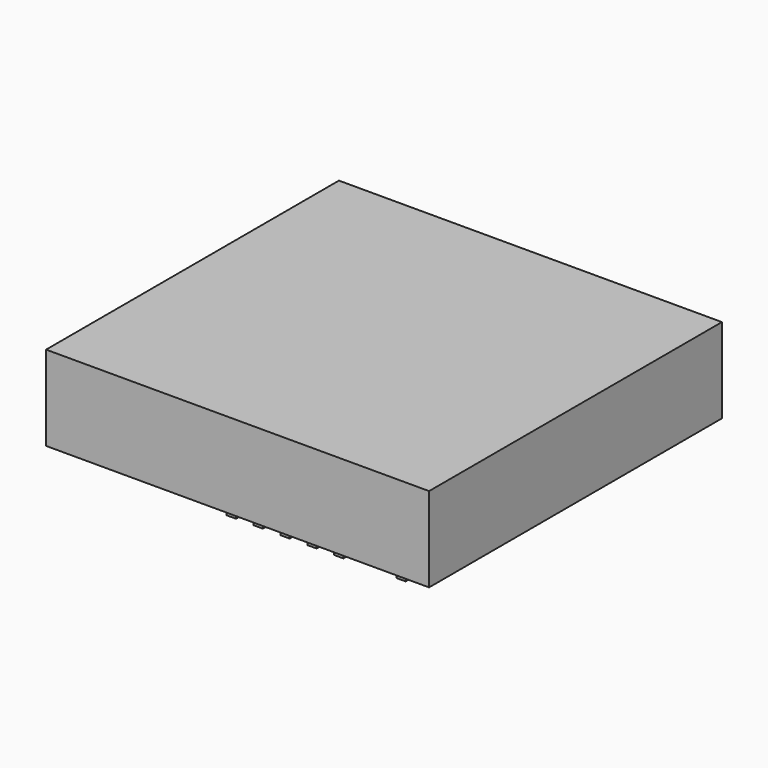
from build123d import *

# Parameters (mm, degrees)
F0_W     = 27.1
F0_H     = 25.9
F1_DEPTH = 6
F2_W     = 0.66
F2_H     = 0.66
F3_DEPTH = 3.9


with BuildPart() as f1:
    # F0 (on Top) → F1 (new body)
    with BuildSketch(Plane.XY):
        Rectangle(F0_W, F0_H)
    extrude(amount=F1_DEPTH)


with BuildPart() as f3:
    # F2 (on face) → F3 (new body)
    with BuildSketch(Plane(origin=(0, 0, 0), x_dir=(1, 0, 0), z_dir=(0, 0, -1))):
        with Locations((-3.02, 7.02)):
            Rectangle(F2_W, F2_H)
        with Locations((-1.12, 7.02)):
            Rectangle(F2_W, F2_H)
        with Locations((0.78, 7.02)):
            Rectangle(F2_W, F2_H)
        with Locations((2.68, 7.02)):
            Rectangle(F2_W, F2_H)
        with Locations((-3.02, -7.02)):
            Rectangle(F2_W, F2_H)
        with Locations((-4.92, -7.02)):
            Rectangle(F2_W, F2_H)
        with Locations((2.68, -7.02)):
            Rectangle(F2_W, F2_H)
        with Locations((0.78, -7.02)):
            Rectangle(F2_W, F2_H)
        with Locations((-1.12, -7.02)):
            Rectangle(F2_W, F2_H)
        with Locations((7.08, 7.02)):
            Rectangle(F2_W, F2_H)
        with Locations((-4.92, 7.02)):
            Rectangle(F2_W, F2_H)
    extrude(amount=F3_DEPTH)


solid = Compound([f1.part, f3.part])
